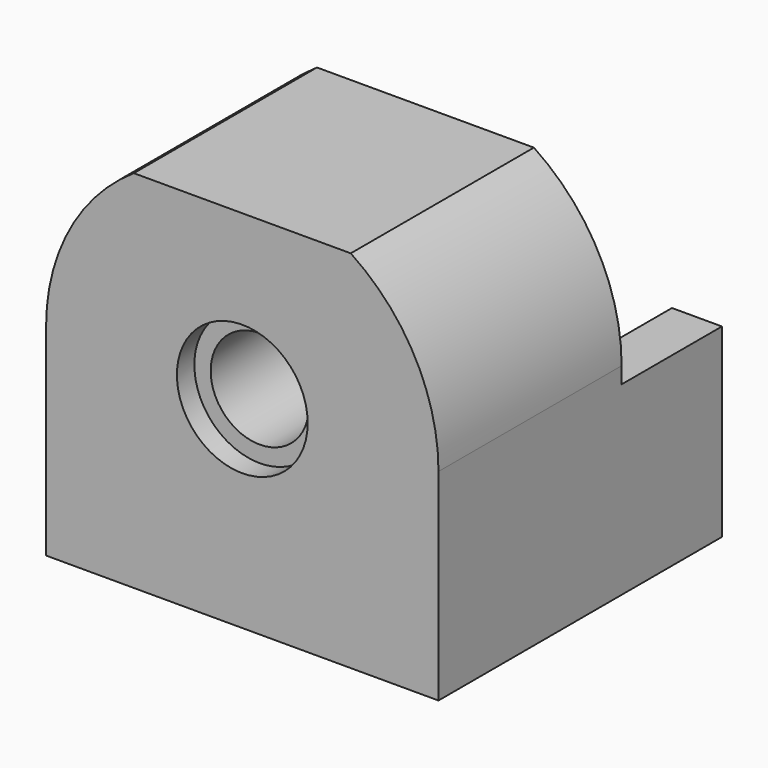
from build123d import *

# Parameters (mm, degrees)
F0_R      = 9
F1_DEPTH  = 65
F2_W      = 23
F2_H      = 36
F2_H_2    = 3
F3_DEPTH  = 72
F4_R      = 12
F5_DEPTH  = 4
F6_R      = 27
F7_DEPTH  = 23
F8_R      = 12
F9_DEPTH  = 10
F11_DEPTH = 6
F13_DEPTH = 65


with BuildPart() as f1:
    # F0 (on Front) → F1 (new body)
    with BuildSketch(Plane.XZ):
        with BuildLine():
            Line((36, -37), (36, 0))
            ThreePointArc((36, 0), (0, 36), (-36, 0))
            Line((-36, 0), (-36, -37))
            Line((-36, -37), (36, -37))
        make_face()
        Circle(F0_R, mode=Mode.SUBTRACT)
    extrude(amount=-F1_DEPTH)

    # F2 (on face) → F3 (cut)
    with BuildSketch(Plane.YZ.offset(36)):
        with Locations((53.5, 18)):
            Rectangle(F2_W, F2_H)
        with Locations((53.5, -1.5)):
            Rectangle(F2_W, F2_H_2)
    extrude(amount=-F3_DEPTH, mode=Mode.SUBTRACT)

    # F4 (on face) → F5 (cut)
    with BuildSketch(Plane.XZ):
        Circle(F4_R)
    extrude(amount=-F5_DEPTH, mode=Mode.SUBTRACT)

    # F6 (on face) → F7 (cut)
    with BuildSketch(Plane(origin=(0, 65, 0), x_dir=(-1, 0, 0), z_dir=(0, 1, 0))):
        Circle(F6_R)
    extrude(amount=-F7_DEPTH, mode=Mode.SUBTRACT)

    # F8 (on face) → F9 (cut)
    with BuildSketch(Plane(origin=(0, 42, 0), x_dir=(-1, 0, 0), z_dir=(0, 1, 0))):
        Circle(F8_R)
    extrude(amount=-F9_DEPTH, mode=Mode.SUBTRACT)

    # F10 (on face) → F11 (cut)
    with BuildSketch(Plane(origin=(0, 42, 0), x_dir=(-1, 0, 0), z_dir=(0, 1, 0))):
        with BuildLine():
            ThreePointArc((22.1415898255, 0), (25.2111536743, 1.4352821251), (26.0778724611, 4.7111111111))
            ThreePointArc((26.0778724611, 4.7111111111), (0, 26.5), (-26.0778724611, 4.7111111111))
            ThreePointArc((-26.0778724611, 4.7111111111), (-25.2111536743, 1.4352821251), (-22.1415898255, 0))
            Line((-22.1415898255, 0), (22.1415898255, 0))
        make_face()
    extrude(amount=-F11_DEPTH, mode=Mode.SUBTRACT)

    # F12 (on face) → F13 (cut)
    with BuildSketch(Plane.XZ):
        with BuildLine():
            ThreePointArc((19.8995, 30.0001649954), (0, 36), (-19.8995, 30.0001649954))
            Line((-19.8995, 30.0001649954), (19.8995, 30.0001649954))
        make_face()
    extrude(amount=-F13_DEPTH, mode=Mode.SUBTRACT)


solid = f1.part
